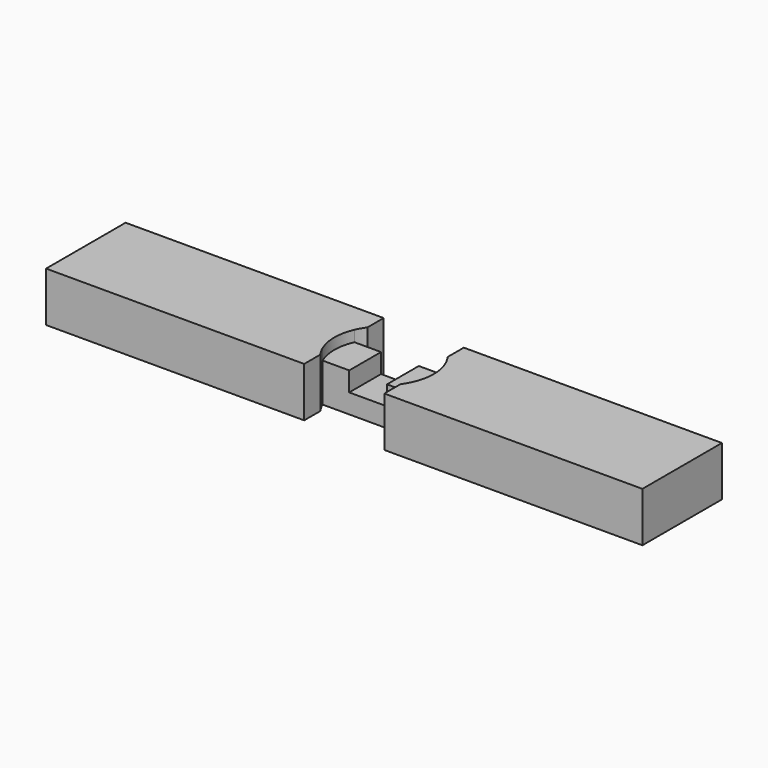
from build123d import *

# Parameters (mm, degrees)
F1_DEPTH = 39
F2_DEPTH = 50
F3_W     = 100
F3_H     = 50
F4_DEPTH = 150
F6_W     = 20
F6_H     = 19.5
F7_DEPTH = 76.8
F8_W     = 9
F8_H     = 19.5
F9_DEPTH = 617


with BuildPart() as f1:
    # F0 (on Top) → F1 (new body)
    with BuildSketch(Plane.XY):
        with BuildLine():
            ThreePointArc((45.8257569496, -20), (50, 0), (45.8257569496, 20))
            Line((45.8257569496, 20), (0, 20))
            Line((0, 20), (0, -20))
            Line((0, -20), (45.8257569496, -20))
        make_face()
    extrude(amount=F1_DEPTH)

    # F0 (on Top) → F2 (join)
    with BuildSketch(Plane.XY):
        with BuildLine():
            Line((150, -50), (150, 50))
            Line((150, 50), (40.307905525, 50))
            Line((40.307905525, 50), (40.307905525, 29.5850089098))
            ThreePointArc((40.307905525, 29.5850089098), (43.3326672589, 24.945539646), (45.8257569496, 20))
            ThreePointArc((45.8257569496, 20), (50, 0), (45.8257569496, -20))
            ThreePointArc((45.8257569496, -20), (43.3326672589, -24.945539646), (40.307905525, -29.5850089098))
            Line((40.307905525, -29.5850089098), (40.307905525, -50))
            Line((40.307905525, -50), (150, -50))
        make_face()
    extrude(amount=F2_DEPTH)

    # F3 (on face) → F4 (join)
    with BuildSketch(Plane.YZ.offset(150)):
        with Locations((0, 25)):
            Rectangle(F3_W, F3_H)
    extrude(amount=F4_DEPTH)

    # F5: F1 across plane


with BuildPart() as f1_1:
    add(f1.part)
    add(f1.part.mirror(Plane.YZ))

    # F6 (on Front) → F7 (cut, symmetric)
    with BuildSketch(Plane.XZ):
        with Locations((0, 29.25)):
            Rectangle(F6_W, F6_H)
    extrude(amount=F7_DEPTH, both=True, mode=Mode.SUBTRACT)

    # F8 (on face) → F9 (cut, symmetric)
    with BuildSketch(Plane.XZ.offset(20)):
        with Locations((14.5, 29.25)):
            Rectangle(F8_W, F8_H)
        with Locations((-14.5, 29.25)):
            Rectangle(F8_W, F8_H)
    extrude(amount=F9_DEPTH, both=True, mode=Mode.SUBTRACT)


solid = f1_1.part
